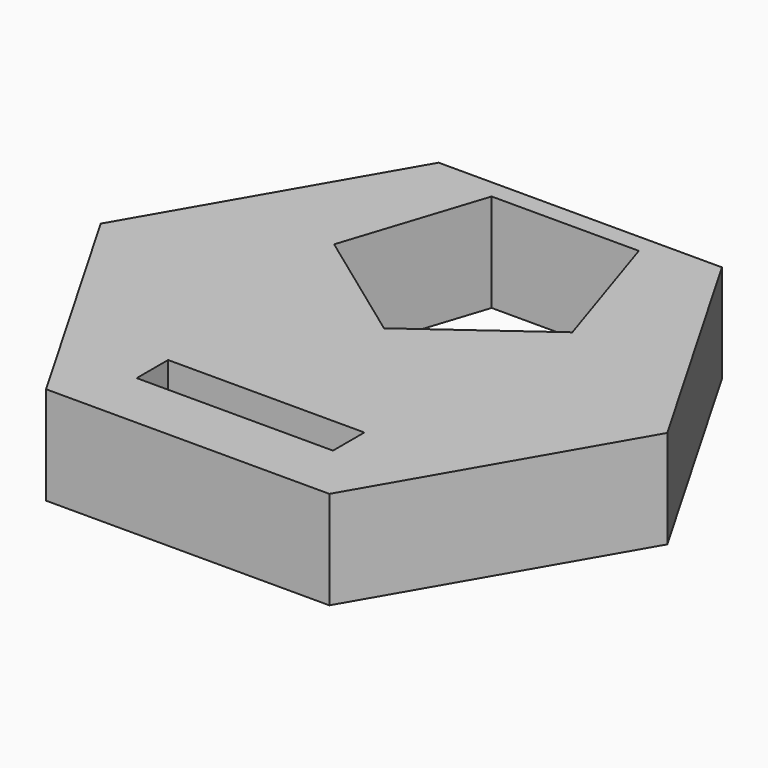
from build123d import *

# Parameters (mm, degrees)
SKETCH_W      = 20
SKETCH_H      = 4
EXTRUDE_DEPTH = 10


with BuildPart() as part:
    # Sketch → Extrude (new body)
    with BuildSketch(Plane.XY):
        Polygon((28.867513, 0), (14.433757, 25), (-14.433757, 25), (-28.867513, 0), (-14.433757, -25), (14.433757, -25), align=None)
        Polygon((7.5, 23.082627), (-7.5, 23.082627), (-12.135255, 8.816779), (0, 0), (12.135255, 8.816779), align=None, mode=Mode.SUBTRACT)
        with Locations((0, -17)):
            Rectangle(SKETCH_W, SKETCH_H, mode=Mode.SUBTRACT)
    extrude(amount=EXTRUDE_DEPTH)


solid = part.part
